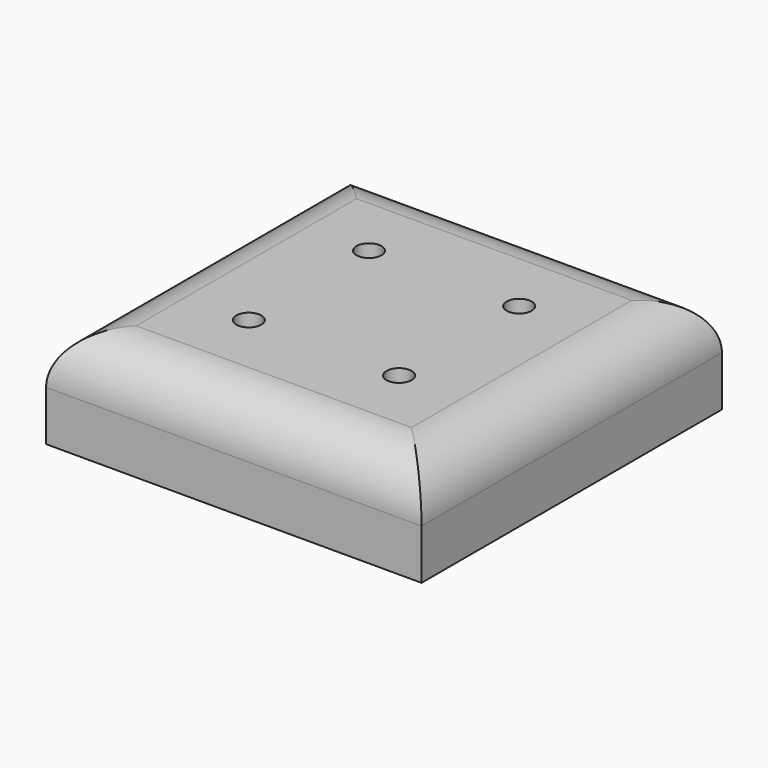
from build123d import *

# Parameters (mm, degrees)
F0_W     = 95.25
F0_H     = 95.25
F2_DEPTH = 25.4
F1_R     = 6.399699
F3_DEPTH = 12.7
F4_R     = 3.175
F5_DEPTH = 12.7
F6_R     = 12.7


with BuildPart() as f2:
    # F0 (on Top) → F2 (new body)
    with BuildSketch(Plane.XY):
        Rectangle(F0_W, F0_H)
    extrude(amount=F2_DEPTH)

    # F1 (on Top) → F3 (cut)
    with BuildSketch(Plane.XY):
        with Locations((-31.75, 31.75)):
            Circle(F1_R)
        with Locations((31.75, 31.75)):
            Circle(F1_R)
        with Locations((31.75, -31.75)):
            Circle(F1_R)
        with Locations((-31.75, -31.75)):
            Circle(F1_R)
    extrude(amount=F3_DEPTH, mode=Mode.SUBTRACT)

    # F4 (on face) → F5 (cut)
    with BuildSketch(Plane.XY.offset(25.4)):
        with Locations((-19.05, -19.05)):
            Circle(F4_R)
        with Locations((19.05, -19.05)):
            Circle(F4_R)
        with Locations((19.05, 19.05)):
            Circle(F4_R)
        with Locations((-19.05, 19.05)):
            Circle(F4_R)
    extrude(amount=-F5_DEPTH, mode=Mode.SUBTRACT)

    # F6
    f6_edges = [f2.edges().sort_by_distance(p)[0] for p in [
        (-47.625, 0, 25.4),
        (0, -47.625, 25.4),
        (47.625, 0, 25.4),
        (0, 47.625, 25.4),
    ]]
    fillet(f6_edges, radius=F6_R)


solid = f2.part
